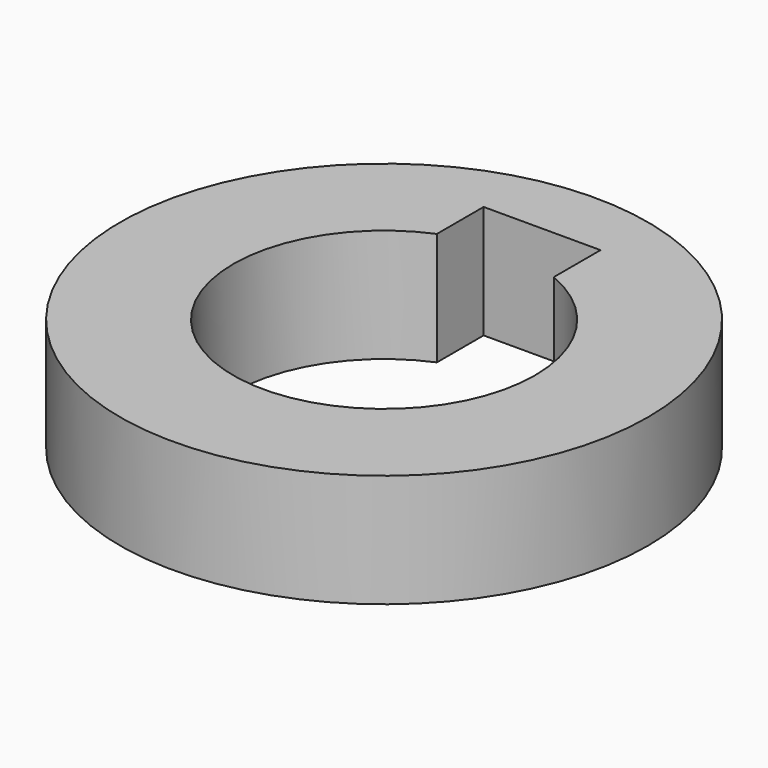
from build123d import *

# Parameters (mm, degrees)
F0_R     = 7
F1_DEPTH = 3
F3_DEPTH = 3


with BuildPart() as f1:
    # F0 (on Top) → F1 (new body)
    with BuildSketch(Plane.XY):
        Circle(F0_R)
    extrude(amount=F1_DEPTH)

    # F2 (on face) → F3 (cut, through all)
    with BuildSketch(Plane.XY.offset(3)):
        with BuildLine():
            ThreePointArc((-1.55, 3.687479), (-2.213594, -3.331666), (4, 0))
            ThreePointArc((4, 0), (3.331666, 2.213594), (1.55, 3.687479))
            ThreePointArc((1.55, 3.687479), (0, 4), (-1.55, 3.687479))
        make_face()
        with BuildLine():
            ThreePointArc((-1.55, 3.687479), (0, 4), (1.55, 3.687479))
            Line((1.55, 3.687479), (1.55, 5.237479))
            Line((1.55, 5.237479), (0, 5.237479))
            Line((0, 5.237479), (-1.55, 5.237479))
            Line((-1.55, 5.237479), (-1.55, 3.687479))
        make_face()
    extrude(amount=-F3_DEPTH, mode=Mode.SUBTRACT)


solid = f1.part
